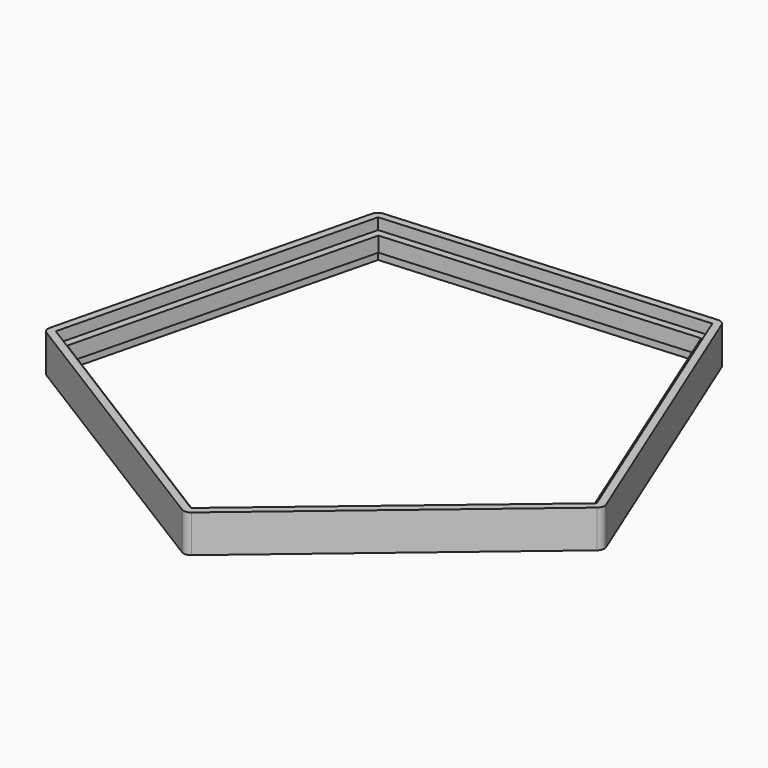
from build123d import *

# Parameters (mm, degrees)
F1_DEPTH = 1
F2_DEPTH = 2.5
F3_R     = 1


with BuildPart() as f1:
    # F0 (on Top) → F1 (new body, symmetric)
    with BuildSketch(Plane.XY):
        Polygon((19.571643256, 31.4964826728), (-23.9069647124, 28.3466872622), (-34.3469600161, -13.9772664763), (2.6793760122, -36.9851130144), (36.0029054603, -8.8807904443), align=None)
        Polygon((-33.2106868902, -13.4901422574), (-23.0925543436, 27.4165569635), (18.9387034188, 30.4345063154), (34.7973167593, -8.6069976298), (2.5672210558, -35.7539233917), align=None, mode=Mode.SUBTRACT)
        Polygon((18.9387034188, 30.4345063154), (-23.0925543436, 27.4165569635), (-33.2106868902, -13.4901422574), (2.5672210558, -35.7539233917), (34.7973167593, -8.6069976298), align=None)
        Polygon((-32.949379101, -13.3121576596), (-22.8425323844, 27.2230387533), (18.8319176983, 30.1369208862), (34.4812975953, -8.5973973294), (2.4786961918, -35.4504046505), align=None, mode=Mode.SUBTRACT)
        Polygon((18.8319176983, 30.1369208862), (-22.8425323844, 27.2230387533), (-32.949379101, -13.3121576596), (2.4786961918, -35.4504046505), (34.4812975953, -8.5973973294), align=None)
        Polygon((-32.0654907905, -13.0249649382), (-22.2962593663, 26.4711584475), (18.2856446802, 29.3850405804), (33.5974092848, -8.310204608), (2.4786961918, -34.5210294816), align=None, mode=Mode.SUBTRACT)
    extrude(amount=F1_DEPTH, both=True)

    # F0 (on Top) → F2 (join, symmetric)
    with BuildSketch(Plane.XY):
        Polygon((19.571643256, 31.4964826728), (-23.9069647124, 28.3466872622), (-34.3469600161, -13.9772664763), (2.6793760122, -36.9851130144), (36.0029054603, -8.8807904443), align=None)
        Polygon((-33.2106868902, -13.4901422574), (-23.0925543436, 27.4165569635), (18.9387034188, 30.4345063154), (34.7973167593, -8.6069976298), (2.5672210558, -35.7539233917), align=None, mode=Mode.SUBTRACT)
    extrude(amount=F2_DEPTH, both=True)

    # F3
    f3_edges = [f1.edges().sort_by_distance(p)[0] for p in [
        (36.002905, -8.88079, 0),
        (2.679376, -36.985113, 0),
        (-34.34696, -13.977266, 0),
        (-23.906965, 28.346687, 0),
        (19.571643, 31.496483, 0),
    ]]
    fillet(f3_edges, radius=F3_R)


solid = f1.part
